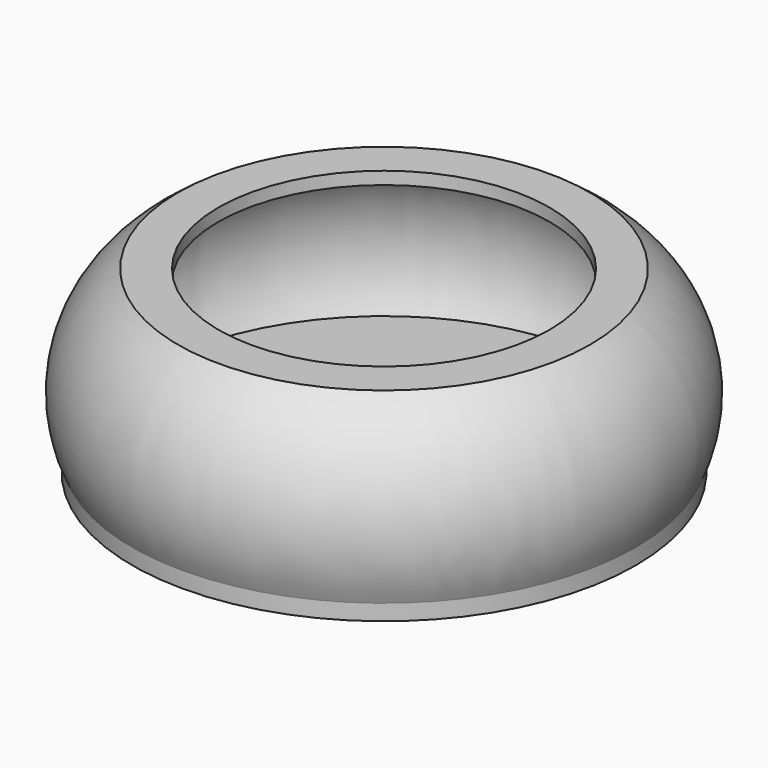
from build123d import *


with BuildPart() as f1:
    # F0 (on Front) → F1 (revolve)
    with BuildSketch(Plane.XZ):
        Polygon((0, 3.175), (0, 0), (50.8, 0), (50.8, 3.175), (47.240072, 3.175), align=None)
        with BuildLine():
            Line((47.240072, 3.175), (50.8, 3.175))
            ThreePointArc((50.8, 3.175), (52.31077, 21.393685), (41.581185, 36.195))
            Line((41.581185, 36.195), (39.666256, 33.655))
            ThreePointArc((39.666256, 33.655), (49.421995, 19.898164), (47.240072, 3.175))
        make_face()
        Polygon((39.666256, 33.655), (41.581185, 36.195), (33.413851, 36.195), (33.413851, 33.655), align=None)
    revolve(axis=Axis((0, 0, 4.551888), (0, 0, -1)))


solid = f1.part
